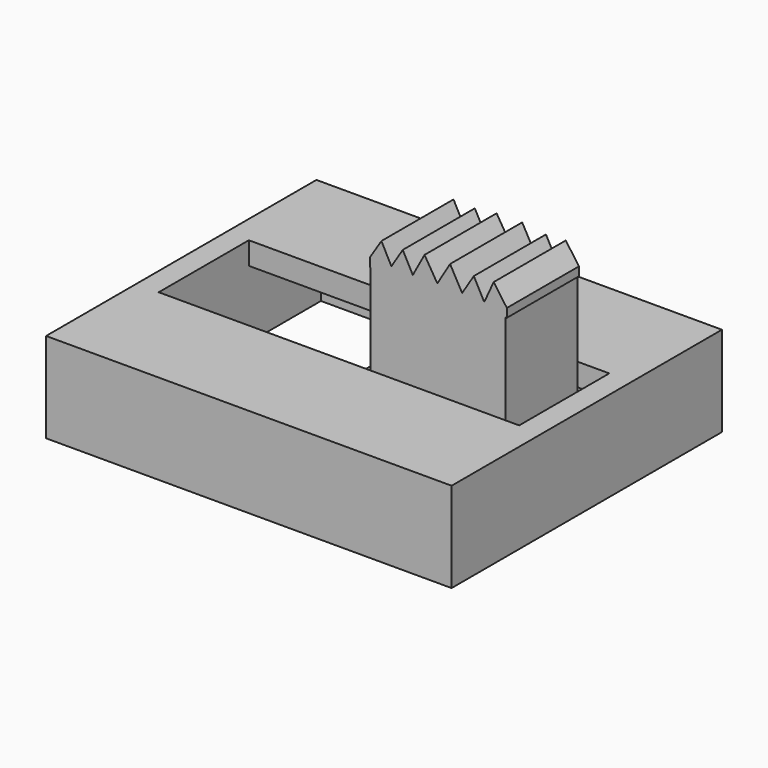
from build123d import *

# Parameters (mm, degrees)
PAD_DEPTH                    = 4
BOX055_W                     = 6
BOX055_H                     = 4
BOX055_DEPTH                 = 5
BOX053_W                     = 16
BOX053_H                     = 5
BOX053_DEPTH                 = 10
BOX052_W                     = 16
BOX052_H                     = 13
BOX052_DEPTH                 = 3
BOX051_W                     = 18
BOX051_H                     = 15
BOX051_DEPTH                 = 4
BOX054_W                     = 8
BOX054_H                     = 12
BOX054_DEPTH                 = 2.8
CHAMFER002_SIZE              = 1
FUSION002030_PLACEMENT_ANGLE = 180


with BuildPart() as pad:
    # Sketch → Pad (new body)
    with BuildSketch(Plane.XZ):
        Polygon((1.974622, -4.079123), (2.485922, -4.884556), (2.927797, -4.039041), (3.431991, -4.84464), (3.877564, -4.005196), (4.398553, -4.963919), (4.968336, -4.033368), (5.532483, -4.976998), (6.067618, -4.016618), (6.588753, -4.85016), (7.050054, -3.982073), (7.468007, -4.900089), (8.054056, -4.079123), (8.054056, -3.693932), (1.974622, -3.693932), align=None)
    extrude(amount=PAD_DEPTH)


with BuildPart() as fusion002029:
    # Box055 → Box055 (new body)
    with BuildSketch(Plane(origin=(2, -4, -4), x_dir=(1, 0, 0), z_dir=(0, 0, 1))):
        with Locations((3, 2)):
            Rectangle(BOX055_W, BOX055_H)
    extrude(amount=BOX055_DEPTH)

    # Fusion002029: union Pad
    add(pad.part)


with BuildPart() as fusion002029_1:
    # Fusion002029 placement: moved
    add(fusion002029.part.moved(Location((8, 9.5, 0))))


with BuildPart() as cubo053:
    # Box053 → Box053 (new body)
    with BuildSketch(Plane(origin=(1, 5, -5), x_dir=(1, 0, 0), z_dir=(0, 0, 1))):
        with Locations((8, 2.5)):
            Rectangle(BOX053_W, BOX053_H)
    extrude(amount=BOX053_DEPTH)


with BuildPart() as cubo052:
    # Box052 → Box052 (new body)
    with BuildSketch(Plane(origin=(1, 1, 1), x_dir=(1, 0, 0), z_dir=(0, 0, 1))):
        with Locations((8, 6.5)):
            Rectangle(BOX052_W, BOX052_H)
    extrude(amount=BOX052_DEPTH)


with BuildPart() as cut074:
    # Box051 → Box051 (new body)
    with BuildSketch(Plane.XY):
        with Locations((9, 7.5)):
            Rectangle(BOX051_W, BOX051_H)
    extrude(amount=BOX051_DEPTH)

    # Cut073: cut Cubo052
    add(cubo052.part, mode=Mode.SUBTRACT)

    # Cut074: cut Cubo053
    add(cubo053.part, mode=Mode.SUBTRACT)


with BuildPart() as fusion002030:
    # Box054 → Box054 (new body)
    with BuildSketch(Plane(origin=(8, 1.5, 1), x_dir=(1, 0, 0), z_dir=(0, 0, 1))):
        with Locations((4, 6)):
            Rectangle(BOX054_W, BOX054_H)
    extrude(amount=BOX054_DEPTH)

    # Chamfer002
    chamfer002_edges = [fusion002030.edges().sort_by_distance(p)[0] for p in [
        (8, 7.5, 3.8),
    ]]
    chamfer(chamfer002_edges, length=CHAMFER002_SIZE)


with BuildPart() as fusion002030_1:
    # Chamfer002 placement: moved
    add(fusion002030.part.moved(Location((1, 0, 0))))

    # Fusion002030: union Fusion002029, Cut074
    add(fusion002029_1.part)
    add(cut074.part)


with BuildPart() as fusion002030_2:
    # Fusion002030 placement: moved
    add(fusion002030_1.part.moved(Location((-14, -3.5, 11.5))).rotate(Axis((-14, -3.5, 11.5), (1, 0, 0)), FUSION002030_PLACEMENT_ANGLE))


solid = fusion002030_2.part
